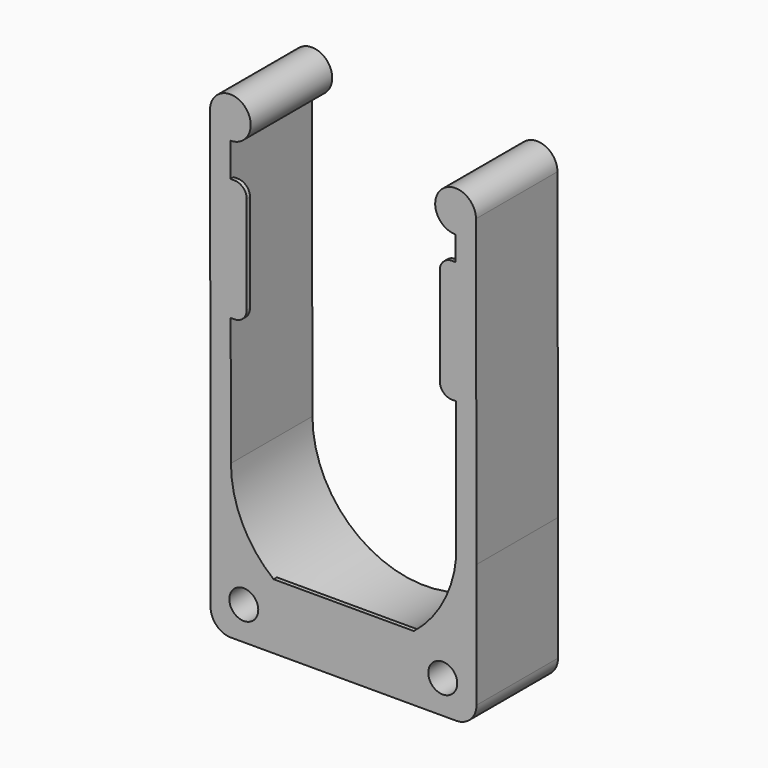
from build123d import *

# Parameters (mm, degrees)
F0_R     = 2
F1_DEPTH = 25
F3_DEPTH = 1
F4_R     = 3.55
F5_DEPTH = 7


with BuildPart() as f1:
    # F0 (on Front) → F1 (new body)
    with BuildSketch(Plane.XZ):
        with BuildLine():
            Line((27.5634530751, 33.6863230431), (27.700783795, -35.983503393))
            ThreePointArc((27.700783795, -35.983503393), (-1.0310012543, -61.2900569115), (-27.5634530751, -33.6863230431))
            Line((-27.5634530751, -33.6863230431), (-27.700783795, 35.983503393))
            ThreePointArc((-27.700783795, 35.983503393), (-24.1975782347, 44.5411756868), (-32.7105452322, 40.9306913446))
            Line((-32.7105452322, 40.9306913446), (-32.5587658259, -36.0691590645))
            Line((-32.5587658259, -36.0691590645), (-32.5587658259, -66.3139410643))
            ThreePointArc((-32.5587658259, -66.3139410643), (-31.0942997319, -69.8494749702), (-27.5587658259, -71.3139410643))
            Line((-27.5587658259, -71.3139410643), (27.700708785, -71.3139410643))
            ThreePointArc((27.700708785, -71.3139410643), (31.236242691, -69.8494749702), (32.700708785, -66.3139410643))
            Line((32.700708785, -66.3139410643), (32.700708785, -35.9405218755))
            Line((32.700708785, -35.9405218755), (32.5535875558, 38.696169135))
            ThreePointArc((32.5535875558, 38.696169135), (24.0111011252, 42.2148712597), (27.5634530751, 33.6863230431))
        make_face()
        with Locations((-24.4080040093, -63.1631792477)):
            Circle(F0_R, mode=Mode.SUBTRACT)
        with Locations((24.4080040093, -63.1631792477)):
            Circle(F0_R, mode=Mode.SUBTRACT)
    extrude(amount=F1_DEPTH)

    # F2 (on face) → F3 (join)
    with BuildSketch(Plane.XZ.offset(25)):
        with BuildLine():
            Line((-26.6844767994, 27.7107327074), (-27.6844767994, 27.7107327074))
            Line((-27.6844767994, 27.7107327074), (-27.6844767994, -2.2892672926))
            Line((-27.6844767994, -2.2892672926), (-26.6844767994, -2.2892672926))
            ThreePointArc((-26.6844767994, -2.2892672926), (-24.5631564558, -1.4105876361), (-23.6844767994, 0.7107327074))
            Line((-23.6844767994, 0.7107327074), (-23.6844767994, 24.7107327074))
            ThreePointArc((-23.6844767994, 24.7107327074), (-24.5631564558, 26.832053051), (-26.6844767994, 27.7107327074))
        make_face()
        with BuildLine():
            Line((26.6844767994, -2.2892672926), (27.6844767994, -2.2892672926))
            Line((27.6844767994, -2.2892672926), (27.6844767994, 27.7107327074))
            Line((27.6844767994, 27.7107327074), (26.6844767994, 27.7107327074))
            ThreePointArc((26.6844767994, 27.7107327074), (24.5631564558, 26.832053051), (23.6844767994, 24.7107327074))
            Line((23.6844767994, 24.7107327074), (23.6844767994, 0.7107327074))
            ThreePointArc((23.6844767994, 0.7107327074), (24.5631564558, -1.4105876361), (26.6844767994, -2.2892672926))
        make_face()
        with BuildLine():
            Line((0.1186772118, -55.3139410643), (-17.0913840546, -55.3139410643))
            ThreePointArc((-17.0913840546, -55.3139410643), (-8.994310893, -59.7709375988), (0.1186772118, -61.3139410643))
            Line((0.1186772118, -61.3139410643), (0.1186772118, -55.3139410643))
        make_face()
        with BuildLine():
            Line((17.3287384782, -55.3139410643), (0.1186772118, -55.3139410643))
            Line((0.1186772118, -55.3139410643), (0.1186772118, -61.3139410643))
            ThreePointArc((0.1186772118, -61.3139410643), (9.2316653166, -59.7709375988), (17.3287384782, -55.3139410643))
        make_face()
    extrude(amount=-F3_DEPTH)

    # F4 (on face) → F5 (cut)
    with BuildSketch(Plane.XZ.offset(25)):
        with Locations((-24.4080040093, -63.1631792477)):
            Circle(F4_R)
        with Locations((24.4080040093, -63.1631792477)):
            Circle(F4_R)
    extrude(amount=-F5_DEPTH, mode=Mode.SUBTRACT)


solid = f1.part
